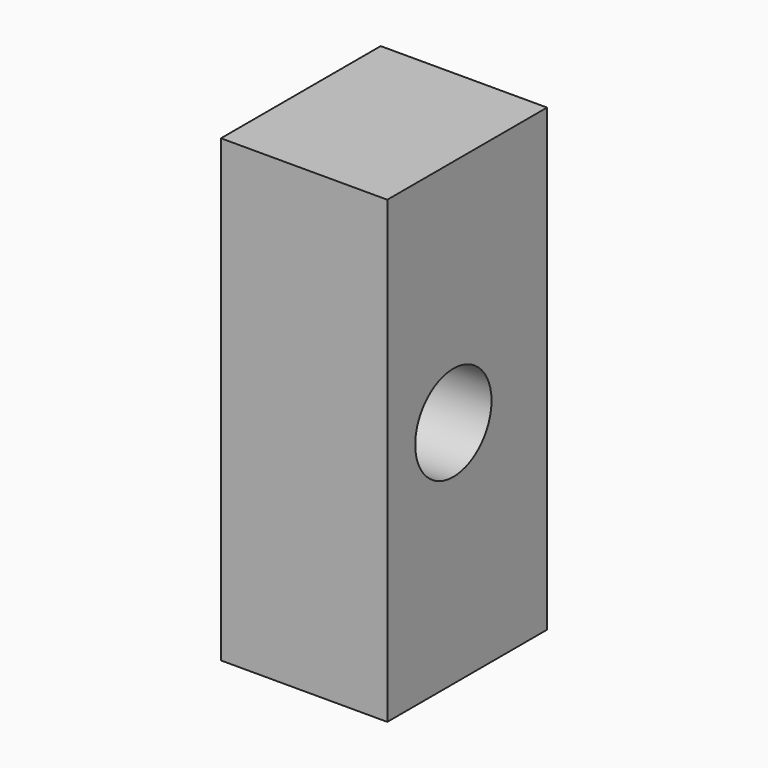
from build123d import *

# Parameters (mm, degrees)
F0_W          = 29.870421
F0_H          = 82.537264
F1_DEPTH      = 35.844419
F2_R          = 8.56262
F3_DEPTH      = 61.739326
F3_DEPTH_BACK = 25.4


with BuildPart() as f1:
    # F0 (on Front) → F1 (new body)
    with BuildSketch(Plane.XZ):
        with Locations((61.447683, 0)):
            Rectangle(F0_W, F0_H)
    extrude(amount=F1_DEPTH)

    # F2 (on face) → F3 (cut, two sides)
    with BuildSketch(Plane.YZ.offset(76.382894)) as f3_sk:
        with Locations((-21.0243, 0)):
            Circle(F2_R)
    extrude(amount=-F3_DEPTH, mode=Mode.SUBTRACT)
    extrude(f3_sk.sketch, amount=-F3_DEPTH_BACK, mode=Mode.SUBTRACT)


solid = f1.part
